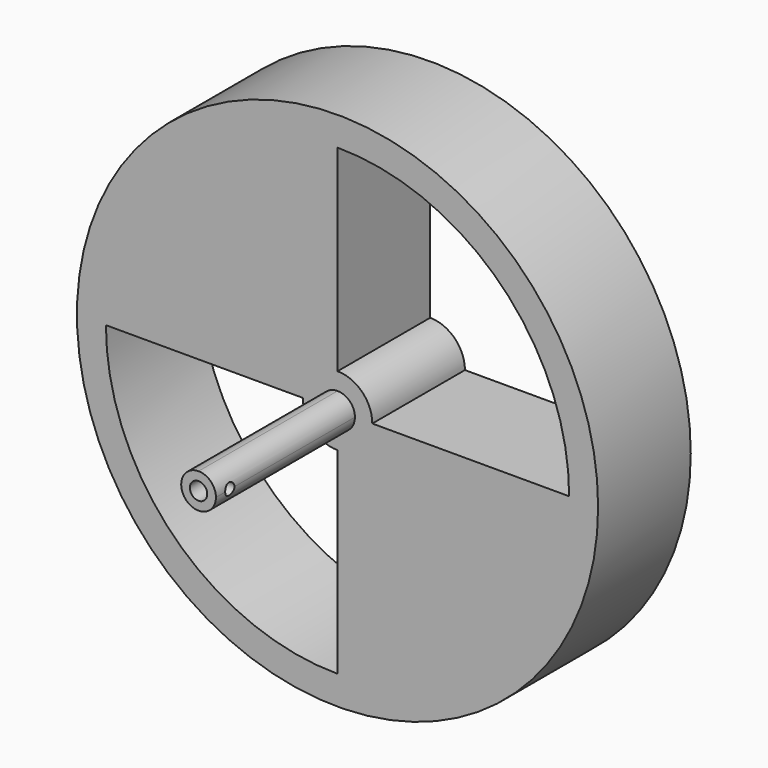
from build123d import *

# Parameters (mm, degrees)
F0_R     = 22.5
F1_DEPTH = 10
F2_DEPTH = 25
F4_R     = 0.5
F5_DEPTH = 2.5
F6_R     = 0.75
F7_DEPTH = 10


with BuildPart() as f1:
    # F0 (on Front) → F1 (new body)
    with BuildSketch(Plane.XZ):
        Circle(F0_R)
        with BuildLine():
            ThreePointArc((0, 20), (14.1421356237, 14.1421356237), (20, 0))
            ThreePointArc((20, 0), (14.1421356237, -14.1421356237), (0, -20))
            ThreePointArc((0, -20), (-14.1421356237, -14.1421356237), (-20, 0))
            ThreePointArc((-20, 0), (-14.1421356237, 14.1421356237), (0, 20))
        make_face(mode=Mode.SUBTRACT)
        with BuildLine():
            Line((0, 3), (0, 20))
            ThreePointArc((0, 20), (-14.1421356237, 14.1421356237), (-20, 0))
            Line((-20, 0), (-3, 0))
            ThreePointArc((-3, 0), (-2.1213203436, 2.1213203436), (0, 3))
        make_face()
        with BuildLine():
            Line((0, 1.5), (0, 3))
            ThreePointArc((0, 3), (-2.1213203436, 2.1213203436), (-3, 0))
            Line((-3, 0), (-1.5, 0))
            ThreePointArc((-1.5, 0), (-1.0606601718, 1.0606601718), (0, 1.5))
        make_face()
        with BuildLine():
            Line((1.5, 0), (3, 0))
            ThreePointArc((3, 0), (2.1213203436, 2.1213203436), (0, 3))
            Line((0, 3), (0, 1.5))
            ThreePointArc((0, 1.5), (1.0606601718, 1.0606601718), (1.5, 0))
        make_face()
        with BuildLine():
            ThreePointArc((-3, 0), (-2.1213203436, -2.1213203436), (0, -3))
            Line((0, -3), (0, -1.5))
            ThreePointArc((0, -1.5), (-1.0606601718, -1.0606601718), (-1.5, 0))
            Line((-1.5, 0), (-3, 0))
        make_face()
        with BuildLine():
            ThreePointArc((0, -3), (2.1213203436, -2.1213203436), (3, 0))
            Line((3, 0), (1.5, 0))
            ThreePointArc((1.5, 0), (1.0606601718, -1.0606601718), (0, -1.5))
            Line((0, -1.5), (0, -3))
        make_face()
        with BuildLine():
            ThreePointArc((0, -20), (14.1421356237, -14.1421356237), (20, 0))
            Line((20, 0), (3, 0))
            ThreePointArc((3, 0), (2.1213203436, -2.1213203436), (0, -3))
            Line((0, -3), (0, -20))
        make_face()
    extrude(amount=F1_DEPTH)

    # F0 (on Front) → F2 (join)
    with BuildSketch(Plane.XZ):
        with BuildLine():
            Line((0, 0), (0, 1.5))
            ThreePointArc((0, 1.5), (-1.0606601718, 1.0606601718), (-1.5, 0))
            Line((-1.5, 0), (0, 0))
        make_face()
        with BuildLine():
            ThreePointArc((-1.5, 0), (-1.0606601718, -1.0606601718), (0, -1.5))
            Line((0, -1.5), (0, 0))
            Line((0, 0), (-1.5, 0))
        make_face()
        with BuildLine():
            ThreePointArc((0, -1.5), (1.0606601718, -1.0606601718), (1.5, 0))
            Line((1.5, 0), (0, 0))
            Line((0, 0), (0, -1.5))
        make_face()
        with BuildLine():
            Line((0, 0), (1.5, 0))
            ThreePointArc((1.5, 0), (1.0606601718, 1.0606601718), (0, 1.5))
            Line((0, 1.5), (0, 0))
        make_face()
    extrude(amount=F2_DEPTH)

    # F4 (on face) → F5 (cut)
    with BuildSketch(Plane.YZ):
        with Locations((-23.5, 0)):
            Circle(F4_R)
    extrude(amount=F5_DEPTH, mode=Mode.SUBTRACT)

    # F6 (on face) → F7 (cut)
    with BuildSketch(Plane.XZ.offset(25)):
        Circle(F6_R)
    extrude(amount=-F7_DEPTH, mode=Mode.SUBTRACT)


solid = f1.part
